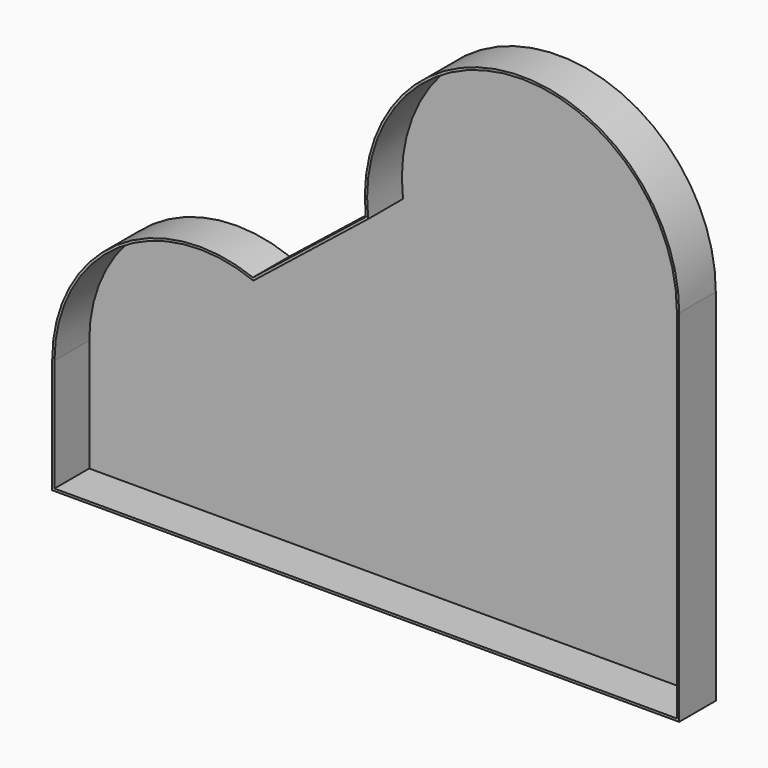
from build123d import *

# Parameters (mm, degrees)
F1_DEPTH = 50
F2_T     = -2.5


with BuildPart() as f1:
    # F0 (on Front) → F1 (new body)
    with BuildSketch(Plane.XZ):
        with BuildLine():
            ThreePointArc((155.2564352751, 163.4969860315), (5.8915510694, 146.0091765296), (-64.1858130693, 12.949584052))
            Line((-64.1858130693, 12.949584052), (-64.1858130693, -112.6743033528))
            Line((-64.1858130693, -112.6743033528), (621.2269067764, -112.6743033528))
            Line((621.2269067764, -112.6743033528), (621.2269067764, 280.9008359909))
            ThreePointArc((621.2269067764, 280.9008359909), (439.8735747108, 452.4664689198), (278.6230742931, 261.8829607964))
            Line((278.6230742931, 261.8829607964), (155.2564352751, 163.4969860315))
        make_face()
    extrude(amount=F1_DEPTH)

    # F2
    f2_openings = [f1.faces().sort_by_distance(p)[0] for p in [
        (335.096712, -50, 111.093297),
    ]]
    offset(amount=F2_T, openings=f2_openings, kind=Kind.INTERSECTION)


solid = f1.part
